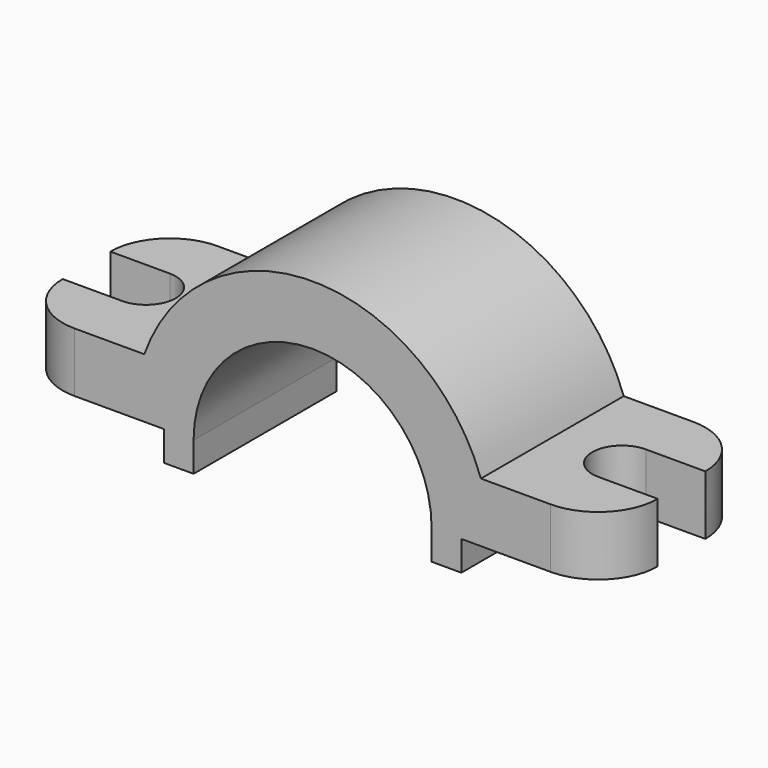
from build123d import *

# Parameters (mm, degrees)
F1_DEPTH = 15
F2_R     = 10
F4_DEPTH = 10
F6_DEPTH = 10


with BuildPart() as f1:
    # F0 (on Front) → F1 (new body, symmetric)
    with BuildSketch(Plane.XZ):
        with BuildLine():
            Line((-50, 10), (-50, 0))
            Line((-50, 0), (-25, 0))
            Line((-25, 0), (-25, -5))
            Line((-25, -5), (-20, -5))
            Line((-20, -5), (-20, 0))
            ThreePointArc((-20, 0), (0, 20), (20, 0))
            Line((20, 0), (20, -5))
            Line((20, -5), (25, -5))
            Line((25, -5), (25, 0))
            Line((25, 0), (50, 0))
            Line((50, 0), (50, 10))
            Line((50, 10), (28.284271, 10))
            ThreePointArc((28.284271, 10), (0, 30), (-28.284271, 10))
            Line((-28.284271, 10), (-50, 10))
        make_face()
    extrude(amount=F1_DEPTH, both=True)

    # F2
    f2_edges = [f1.edges().sort_by_distance(p)[0] for p in [
        (-50, -15, 5),
        (50, -15, 5),
        (50, 15, 5),
        (-50, 15, 5),
    ]]
    fillet(f2_edges, radius=F2_R)

    # F3 (on face) → F4 (cut, through all)
    with BuildSketch(Plane.XY.offset(10)):
        with BuildLine():
            Line((-40, 5), (-50, 5))
            Line((-50, 5), (-50, -5))
            Line((-50, -5), (-40, -5))
            ThreePointArc((-40, -5), (-35, 0), (-40, 5))
        make_face()
    extrude(amount=-F4_DEPTH, mode=Mode.SUBTRACT)

    # F5 (on face) → F6 (cut, through all)
    with BuildSketch(Plane.XY.offset(10)):
        with BuildLine():
            Line((50, -5), (50, 5))
            Line((50, 5), (40, 5))
            ThreePointArc((40, 5), (35, 0), (40, -5))
            Line((40, -5), (50, -5))
        make_face()
    extrude(amount=-F6_DEPTH, mode=Mode.SUBTRACT)


solid = f1.part
